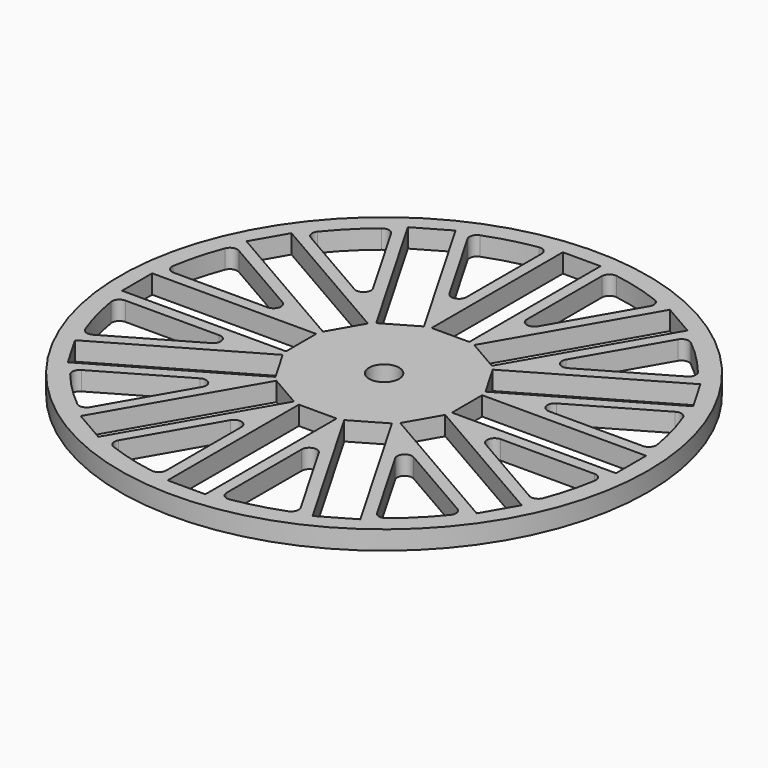
from build123d import *

# Parameters (mm, degrees)
F0_R     = 70
F0_W     = 10
F0_H     = 43.5
F0_W_2   = 43.5
F0_H_2   = 10
F0_R_2   = 4
F1_DEPTH = 5


with BuildPart() as f1:
    # F0 (on Top) → F1 (new body)
    with BuildSketch(Plane.XY):
        Circle(F0_R)
        with BuildLine():
            ThreePointArc((-50.419256, -41.023148), (-50.834826, -39.398712), (-49.867894, -38.028846))
            Line((-49.867894, -38.028846), (-28.320508, -25.588457))
            ThreePointArc((-28.320508, -25.588457), (-25.906295, -25.906295), (-25.588457, -28.320508))
            Line((-25.588457, -28.320508), (-38.028846, -49.867894))
            ThreePointArc((-38.028846, -49.867894), (-39.398712, -50.834826), (-41.023148, -50.419256))
            ThreePointArc((-41.023148, -50.419256), (-45.961941, -45.961941), (-50.419256, -41.023148))
        make_face(mode=Mode.SUBTRACT)
        Polygon((-6.669873, -21.552559), (-28.419873, -59.224664), (-37.080127, -54.224664), (-15.330127, -16.552559), align=None, mode=Mode.SUBTRACT)
        with BuildLine():
            ThreePointArc((-23.152782, -60.736716), (-24.324895, -59.537699), (-24.17244, -57.867894))
            Line((-24.17244, -57.867894), (-11.732051, -36.320508))
            ThreePointArc((-11.732051, -36.320508), (-9.482362, -35.388656), (-8, -37.320508))
            Line((-8, -37.320508), (-8, -62.201286))
            ThreePointArc((-8, -62.201286), (-8.702873, -63.723607), (-10.31746, -64.17593))
            ThreePointArc((-10.31746, -64.17593), (-16.823238, -62.785179), (-23.152782, -60.736716))
        make_face(mode=Mode.SUBTRACT)
        Polygon((-16.552559, -15.330127), (-54.224664, -37.080127), (-59.224664, -28.419873), (-21.552559, -6.669873), align=None, mode=Mode.SUBTRACT)
        with BuildLine():
            ThreePointArc((-64.17593, -10.31746), (-63.723607, -8.702873), (-62.201286, -8))
            Line((-62.201286, -8), (-37.320508, -8))
            ThreePointArc((-37.320508, -8), (-35.388656, -9.482362), (-36.320508, -11.732051))
            Line((-36.320508, -11.732051), (-57.867894, -24.17244))
            ThreePointArc((-57.867894, -24.17244), (-59.537699, -24.324895), (-60.736716, -23.152782))
            ThreePointArc((-60.736716, -23.152782), (-62.785179, -16.823238), (-64.17593, -10.31746))
        make_face(mode=Mode.SUBTRACT)
        with BuildLine():
            ThreePointArc((10.31746, -64.17593), (8.702873, -63.723607), (8, -62.201286))
            Line((8, -62.201286), (8, -37.320508))
            ThreePointArc((8, -37.320508), (9.482362, -35.388656), (11.732051, -36.320508))
            Line((11.732051, -36.320508), (24.17244, -57.867894))
            ThreePointArc((24.17244, -57.867894), (24.324895, -59.537699), (23.152782, -60.736716))
            ThreePointArc((23.152782, -60.736716), (16.823238, -62.785179), (10.31746, -64.17593))
        make_face(mode=Mode.SUBTRACT)
        with Locations((0, -43.75)):
            Rectangle(F0_W, F0_H, mode=Mode.SUBTRACT)
        Polygon((15.330127, -16.552559), (37.080127, -54.224664), (28.419873, -59.224664), (6.669873, -21.552559), align=None, mode=Mode.SUBTRACT)
        with BuildLine():
            ThreePointArc((41.023148, -50.419256), (39.398712, -50.834826), (38.028846, -49.867894))
            Line((38.028846, -49.867894), (25.588457, -28.320508))
            ThreePointArc((25.588457, -28.320508), (25.906295, -25.906295), (28.320508, -25.588457))
            Line((28.320508, -25.588457), (49.867894, -38.028846))
            ThreePointArc((49.867894, -38.028846), (50.834826, -39.398712), (50.419256, -41.023148))
            ThreePointArc((50.419256, -41.023148), (45.961941, -45.961941), (41.023148, -50.419256))
        make_face(mode=Mode.SUBTRACT)
        Polygon((21.552559, -6.669873), (59.224664, -28.419873), (54.224664, -37.080127), (16.552559, -15.330127), align=None, mode=Mode.SUBTRACT)
        with BuildLine():
            ThreePointArc((60.736716, -23.152782), (59.537699, -24.324895), (57.867894, -24.17244))
            Line((57.867894, -24.17244), (36.320508, -11.732051))
            ThreePointArc((36.320508, -11.732051), (35.388656, -9.482362), (37.320508, -8))
            Line((37.320508, -8), (62.201286, -8))
            ThreePointArc((62.201286, -8), (63.723607, -8.702873), (64.17593, -10.31746))
            ThreePointArc((64.17593, -10.31746), (62.785179, -16.823238), (60.736716, -23.152782))
        make_face(mode=Mode.SUBTRACT)
        with Locations((-43.75, 0)):
            Rectangle(F0_W_2, F0_H_2, mode=Mode.SUBTRACT)
        with BuildLine():
            ThreePointArc((-60.736716, 23.152782), (-59.537699, 24.324895), (-57.867894, 24.17244))
            Line((-57.867894, 24.17244), (-36.320508, 11.732051))
            ThreePointArc((-36.320508, 11.732051), (-35.388656, 9.482362), (-37.320508, 8))
            Line((-37.320508, 8), (-62.201286, 8))
            ThreePointArc((-62.201286, 8), (-63.723607, 8.702873), (-64.17593, 10.31746))
            ThreePointArc((-64.17593, 10.31746), (-62.785179, 16.823238), (-60.736716, 23.152782))
        make_face(mode=Mode.SUBTRACT)
        Polygon((-21.552559, 6.669873), (-59.224664, 28.419873), (-54.224664, 37.080127), (-16.552559, 15.330127), align=None, mode=Mode.SUBTRACT)
        with BuildLine():
            ThreePointArc((-41.023148, 50.419256), (-39.398712, 50.834826), (-38.028846, 49.867894))
            Line((-38.028846, 49.867894), (-25.588457, 28.320508))
            ThreePointArc((-25.588457, 28.320508), (-25.906295, 25.906295), (-28.320508, 25.588457))
            Line((-28.320508, 25.588457), (-49.867894, 38.028846))
            ThreePointArc((-49.867894, 38.028846), (-50.834826, 39.398712), (-50.419256, 41.023148))
            ThreePointArc((-50.419256, 41.023148), (-45.961941, 45.961941), (-41.023148, 50.419256))
        make_face(mode=Mode.SUBTRACT)
        Polygon((-15.330127, 16.552559), (-37.080127, 54.224664), (-28.419873, 59.224664), (-6.669873, 21.552559), align=None, mode=Mode.SUBTRACT)
        with BuildLine():
            Line((-11.732051, 36.320508), (-24.17244, 57.867894))
            ThreePointArc((-24.17244, 57.867894), (-24.324895, 59.537699), (-23.152782, 60.736716))
            ThreePointArc((-23.152782, 60.736716), (-16.823238, 62.785179), (-10.31746, 64.17593))
            ThreePointArc((-10.31746, 64.17593), (-8.702873, 63.723607), (-8, 62.201286))
            Line((-8, 62.201286), (-8, 37.320508))
            ThreePointArc((-8, 37.320508), (-9.482362, 35.388656), (-11.732051, 36.320508))
        make_face(mode=Mode.SUBTRACT)
        Circle(F0_R_2, mode=Mode.SUBTRACT)
        with Locations((43.75, 0)):
            Rectangle(F0_W_2, F0_H_2, mode=Mode.SUBTRACT)
        with BuildLine():
            ThreePointArc((64.17593, 10.31746), (63.723607, 8.702873), (62.201286, 8))
            Line((62.201286, 8), (37.320508, 8))
            ThreePointArc((37.320508, 8), (35.388656, 9.482362), (36.320508, 11.732051))
            Line((36.320508, 11.732051), (57.867894, 24.17244))
            ThreePointArc((57.867894, 24.17244), (59.537699, 24.324895), (60.736716, 23.152782))
            ThreePointArc((60.736716, 23.152782), (62.785179, 16.823238), (64.17593, 10.31746))
        make_face(mode=Mode.SUBTRACT)
        Polygon((16.552559, 15.330127), (54.224664, 37.080127), (59.224664, 28.419873), (21.552559, 6.669873), align=None, mode=Mode.SUBTRACT)
        with Locations((0, 43.75)):
            Rectangle(F0_W, F0_H, mode=Mode.SUBTRACT)
        with BuildLine():
            Line((8, 37.320508), (8, 62.201286))
            ThreePointArc((8, 62.201286), (8.702873, 63.723607), (10.31746, 64.17593))
            ThreePointArc((10.31746, 64.17593), (16.823238, 62.785179), (23.152782, 60.736716))
            ThreePointArc((23.152782, 60.736716), (24.324895, 59.537699), (24.17244, 57.867894))
            Line((24.17244, 57.867894), (11.732051, 36.320508))
            ThreePointArc((11.732051, 36.320508), (9.482362, 35.388656), (8, 37.320508))
        make_face(mode=Mode.SUBTRACT)
        Polygon((6.669873, 21.552559), (28.419873, 59.224664), (37.080127, 54.224664), (15.330127, 16.552559), align=None, mode=Mode.SUBTRACT)
        with BuildLine():
            Line((25.588457, 28.320508), (38.028846, 49.867894))
            ThreePointArc((38.028846, 49.867894), (39.398712, 50.834826), (41.023148, 50.419256))
            ThreePointArc((41.023148, 50.419256), (45.961941, 45.961941), (50.419256, 41.023148))
            ThreePointArc((50.419256, 41.023148), (50.834826, 39.398712), (49.867894, 38.028846))
            Line((49.867894, 38.028846), (28.320508, 25.588457))
            ThreePointArc((28.320508, 25.588457), (25.906295, 25.906295), (25.588457, 28.320508))
        make_face(mode=Mode.SUBTRACT)
    extrude(amount=F1_DEPTH)


solid = f1.part
